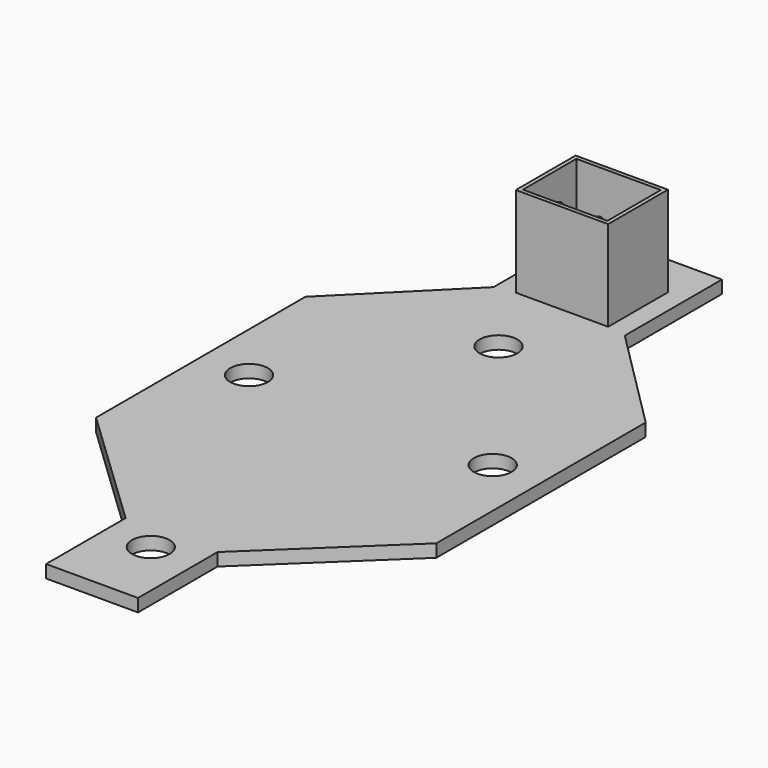
from build123d import *

# Parameters (mm, degrees)
F0_R     = 1.2192
F1_DEPTH = 0.8255
F2_W     = 5.969
F2_H     = 4.826
F2_W_2   = 5.461
F2_H_2   = 4.318
F3_DEPTH = 5.842
F2_R     = 0.254
F4_DEPTH = 0.508
F5_DEPTH = 5.08


with BuildPart() as f1:
    # F0 (on Top) → F1 (new body)
    with BuildSketch(Plane.XY):
        Polygon((4.2418, 0), (-4.2418, 0), (-4.2418, -7.8486), (-10.9982, -14.605), (-10.9982, -31.5214), (-2.9718, -39.1668), (-2.9718, -45.593), (2.9718, -45.593), (2.9718, -39.1668), (10.9982, -31.5214), (10.9982, -14.605), (4.2418, -7.8486), align=None)
        with Locations((-7.874, -23.0632)):
            Circle(F0_R, mode=Mode.SUBTRACT)
        with Locations((0, -40.8432)):
            Circle(F0_R, mode=Mode.SUBTRACT)
        with Locations((7.874, -23.0632)):
            Circle(F0_R, mode=Mode.SUBTRACT)
        with Locations((0, -12.7508)):
            Circle(F0_R, mode=Mode.SUBTRACT)
    extrude(amount=F1_DEPTH)

    # F2 (on face) → F3 (join)
    with BuildSketch(Plane.XY.offset(0.8255)):
        with Locations((0, -5.207)):
            Rectangle(F2_W, F2_H)
        with Locations((0, -5.207)):
            Rectangle(F2_W_2, F2_H_2, mode=Mode.SUBTRACT)
    extrude(amount=F3_DEPTH)

    # F2 (on face) → F4 (join)
    with BuildSketch(Plane.XY.offset(0.8255)):
        with Locations((0, -5.207)):
            Rectangle(F2_W_2, F2_H_2)
        with Locations((-1.27, -6.35)):
            Circle(F2_R, mode=Mode.SUBTRACT)
        with Locations((1.27, -6.35)):
            Circle(F2_R, mode=Mode.SUBTRACT)
    extrude(amount=F4_DEPTH)

    # F2 (on face) → F5 (join)
    with BuildSketch(Plane.XY.offset(0.8255)):
        with Locations((-1.27, -6.35)):
            Circle(F2_R)
        with Locations((1.27, -6.35)):
            Circle(F2_R)
    extrude(amount=F5_DEPTH)


solid = f1.part
